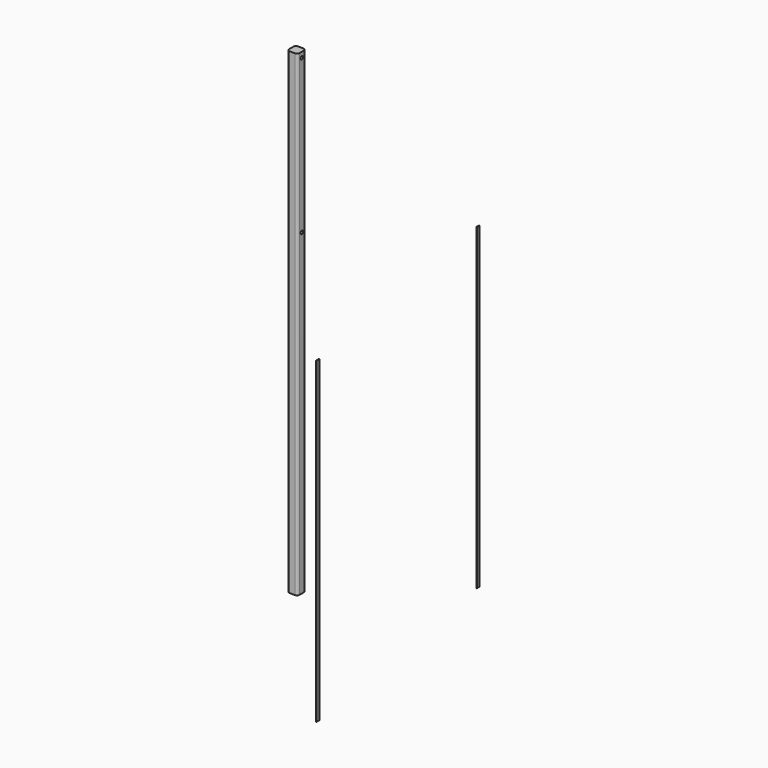
from build123d import *

# Parameters (mm, degrees)
F1_DEPTH = 1143
F2_W     = 8.46582
F2_H     = 762
F3_DEPTH = 1.27
F4_W     = 8.46582
F4_H     = 762
F5_DEPTH = 1.27
F7_R     = 3.81
F8_DEPTH = 25.4
F9_DEPTH = 25.4


with BuildPart() as f1:
    # F0 (on Top) → F1 (new body)
    with BuildSketch(Plane.XY):
        with BuildLine():
            ThreePointArc((12.7, 6.35), (10.8401280605, 10.8401280605), (6.35, 12.7))
            Line((6.35, 12.7), (-6.35, 12.7))
            ThreePointArc((-6.35, 12.7), (-10.8401280605, 10.8401280605), (-12.7, 6.35))
            Line((-12.7, 6.35), (-12.7, -6.35))
            ThreePointArc((-12.7, -6.35), (-10.8401280605, -10.8401280605), (-6.35, -12.7))
            Line((-6.35, -12.7), (6.35, -12.7))
            ThreePointArc((6.35, -12.7), (10.8401280605, -10.8401280605), (12.7, -6.35))
            Line((12.7, -6.35), (12.7, 6.35))
        make_face()
    extrude(amount=F1_DEPTH)

    # F7 (on face) → F8 (cut)
    with BuildSketch(Plane.YZ.offset(12.7)):
        with Locations((0, 1130.3)):
            Circle(F7_R)
        with Locations((0, 762)):
            Circle(F7_R)
    extrude(amount=-F8_DEPTH, mode=Mode.SUBTRACT)

    # F7 (on face) → F9 (cut)
    with BuildSketch(Plane.YZ.offset(12.7)):
        with Locations((0, 1130.3)):
            Circle(F7_R)
        with Locations((0, 762)):
            Circle(F7_R)
    extrude(amount=-F9_DEPTH, mode=Mode.SUBTRACT)


with BuildPart() as f3:
    # F2 (on Right) → F3 (new body)
    with BuildSketch(Plane.YZ):
        with Locations((-254.7643813265, 294.3854284883)):
            Rectangle(F2_W, F2_H)
    extrude(amount=F3_DEPTH)


with BuildPart() as f5:
    # F4 (on Right) → F5 (new body)
    with BuildSketch(Plane.YZ):
        with Locations((225.5212334024, 381)):
            Rectangle(F4_W, F4_H)
    extrude(amount=F5_DEPTH)


with BuildPart() as f3_1:
    # F6: moved
    add(f3.part.moved(Location((254, 0, 0))))


with BuildPart() as f5_1:
    # F6: moved
    add(f5.part.moved(Location((254, 0, 0))))


solid = Compound([f1.part, f3_1.part, f5_1.part])
